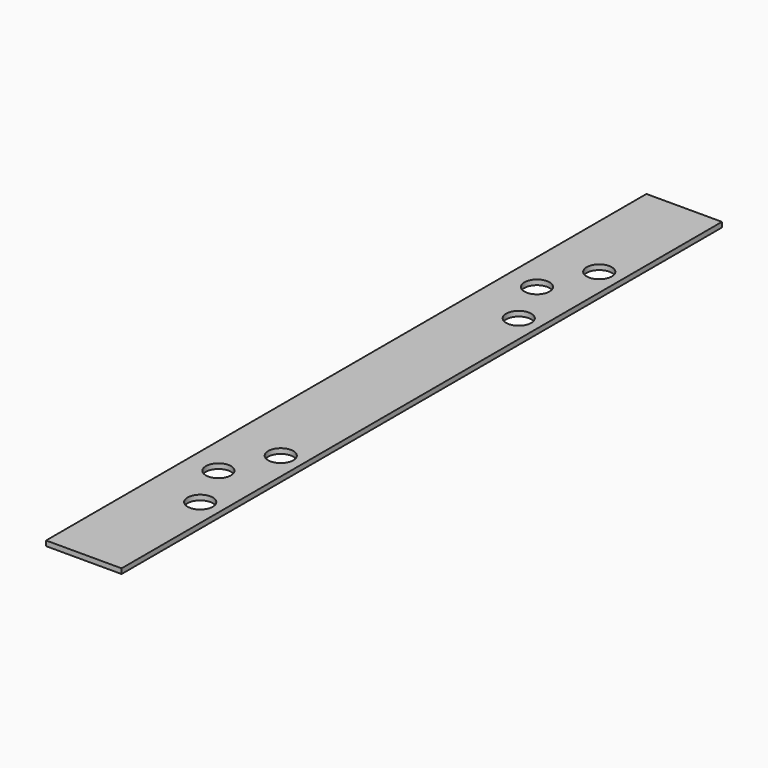
from build123d import *

# Parameters (mm, degrees)
F0_W     = 38.1
F0_H     = 378.714
F1_DEPTH = 2.54
F5_D     = 12.7
F9_D     = 12.7


with BuildPart() as f1:
    # F0 (on Top) → F1 (new body)
    with BuildSketch(Plane.XY):
        Rectangle(F0_W, F0_H)
    extrude(amount=F1_DEPTH)

    # F5 (through all)
    with Locations(Plane.XY.offset(2.54)):
        with Locations((-3.175, 100.457), (7.9375, 75.057), (7.9375, 125.857)):
            Hole(F5_D / 2)

    # F9 (through all)
    with Locations(Plane.XY.offset(2.54)):
        with Locations((7.9375, -125.857), (-3.175, -100.457), (7.9375, -75.057)):
            Hole(F9_D / 2)


solid = f1.part
